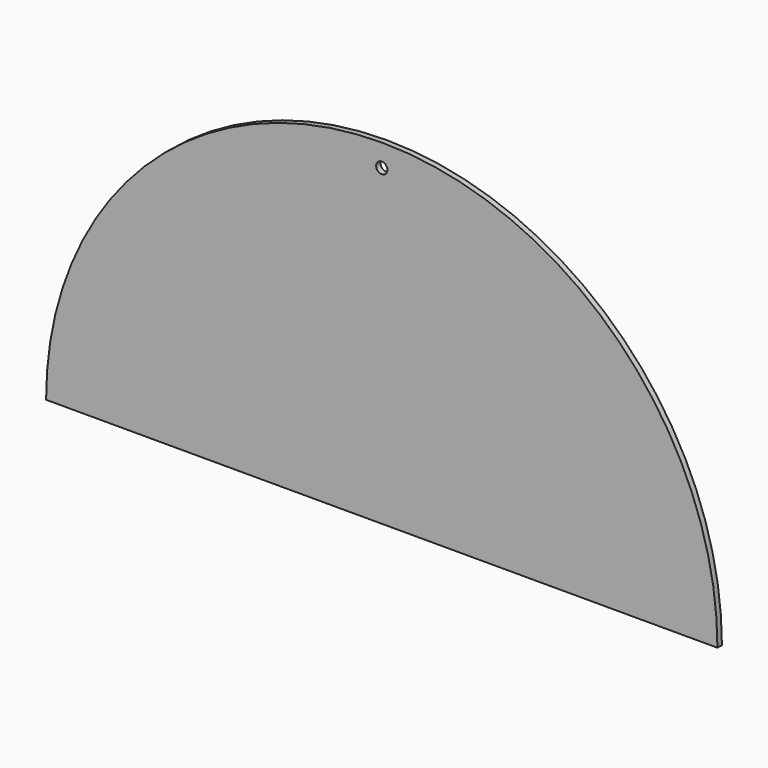
from build123d import *

# Parameters (mm, degrees)
F0_R     = 12.7
F1_DEPTH = 6.35


with BuildPart() as f1:
    # F0 (on Front) → F1 (new body, symmetric)
    with BuildSketch(Plane.XZ):
        with BuildLine():
            Line((-762, 0), (762, 0))
            ThreePointArc((762, 0), (0, 762), (-762, 0))
        make_face()
        with Locations((0, 711.2)):
            Circle(F0_R, mode=Mode.SUBTRACT)
    extrude(amount=F1_DEPTH, both=True)


solid = f1.part
